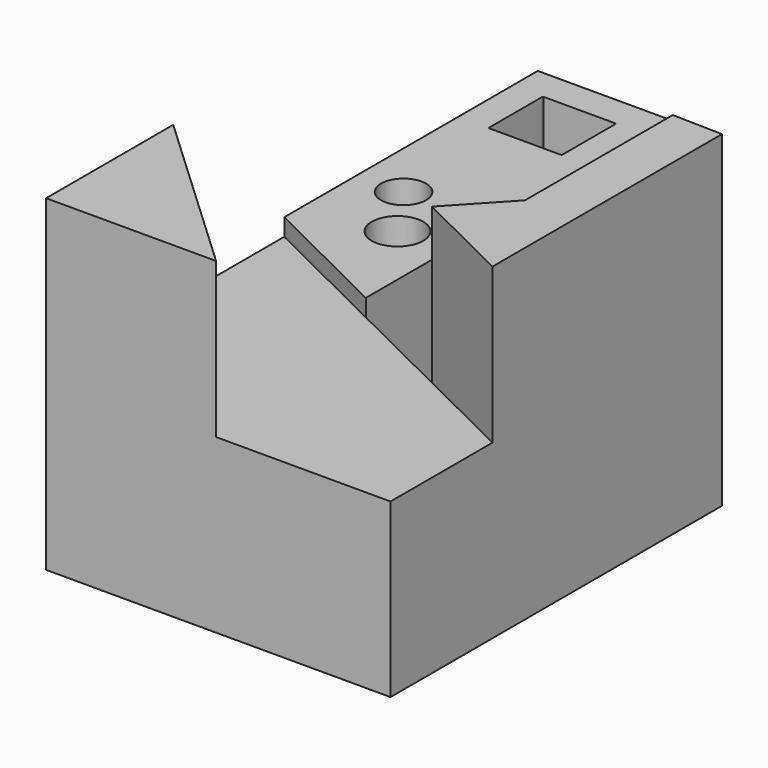
from build123d import *

# Parameters (mm, degrees)
F1_DEPTH = 1900
F2_DEPTH = 1000
F0_R     = 149.7440196074
F0_R_2   = 130.7747559493
F3_DEPTH = 1100
F4_DEPTH = 1900
F5_DEPTH = 1900


with BuildPart() as f1:
    # F0 (on Top) → F1 (new body)
    with BuildSketch(Plane.XY):
        Polygon((0, 0), (987.2985183434, 0), (0, 922.8238463402), align=None)
    extrude(amount=F1_DEPTH)

    # F0 (on Top) → F2 (join)
    with BuildSketch(Plane.XY):
        Polygon((987.2985183434, 0), (2000, 0), (2000, 740.351498127), (1417.5641597736, 1028.1890113665), (783.5044264793, 1341.5388505621), (0, 1728.7436723709), (0, 1728.7435531616), (0, 922.8238463402), align=None)
    extrude(amount=F2_DEPTH)

    # F0 (on Top) → F3 (join)
    with BuildSketch(Plane.XY):
        Polygon((0, 1728.7436723709), (783.5044264793, 1341.5388505621), (783.5044264793, 1728.7435531616), (783.5044264793, 3568.6736106873), (0, 3568.6736106873), align=None)
        with Locations((487.2047007084, 1941.6280984879)):
            Circle(F0_R, mode=Mode.SUBTRACT)
        with Locations((266.8792903423, 2260.954618454)):
            Circle(F0_R_2, mode=Mode.SUBTRACT)
        with BuildLine():
            ThreePointArc((175.7101416588, 3381.2011432648), (177.1746077529, 3384.7366771707), (180.7101416588, 3386.2011432648))
            Line((180.7101416588, 3386.2011432648), (596.1661291122, 3386.2011432648))
            ThreePointArc((596.1661291122, 3386.2011432648), (599.7016630182, 3384.7366771707), (601.1661291122, 3381.2011432648))
            Line((601.1661291122, 3381.2011432648), (601.1661291122, 2995.8442497253))
            ThreePointArc((601.1661291122, 2995.8442497253), (599.7016630182, 2992.3087158194), (596.1661291122, 2990.8442497253))
            Line((596.1661291122, 2990.8442497253), (180.7101416588, 2990.8442497253))
            ThreePointArc((180.7101416588, 2990.8442497253), (177.1746077529, 2992.3087158194), (175.7101416588, 2995.8442497253))
            Line((175.7101416588, 2995.8442497253), (175.7101416588, 3381.2011432648))
        make_face(mode=Mode.SUBTRACT)
    extrude(amount=F3_DEPTH)

    # F0 (on Top) → F4 (join)
    with BuildSketch(Plane.XY):
        Polygon((1417.5641597736, 1028.1890113665), (2000, 740.351498127), (2000, 1652.7134180069), (1708.7820798868, 1340.4512146867), align=None)
    extrude(amount=F4_DEPTH)

    # F0 (on Top) → F5 (join)
    with BuildSketch(Plane.XY):
        Polygon((1708.7820798868, 1340.4512146867), (2000, 1652.7134180069), (2000, 2405.412197113), (1708.7820798868, 2412.763577853), align=None)
    extrude(amount=F5_DEPTH)


solid = f1.part
